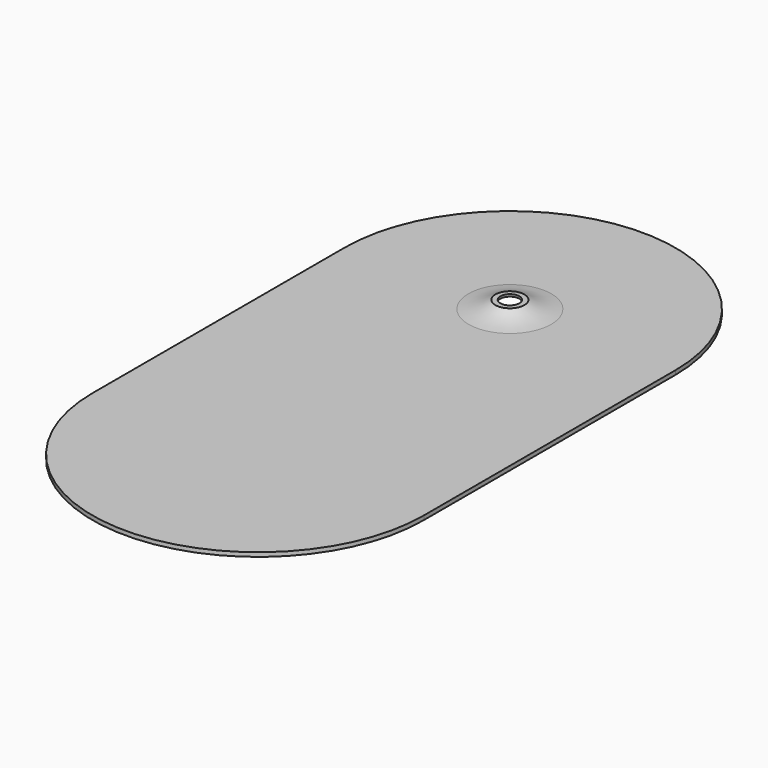
from build123d import *

# Parameters (mm, degrees)
F1_R     = 31.75
F3_DEPTH = 3.175


with BuildPart() as f3:
    # F1 (on Top) → F3 (new body)
    with BuildSketch(Plane.XY):
        with BuildLine():
            Line((127, -120.65), (127, 120.65))
            ThreePointArc((127, 120.65), (0, 247.65), (-127, 120.65))
            Line((-127, 120.65), (-127, -120.65))
            ThreePointArc((-127, -120.65), (0, -247.65), (127, -120.65))
        make_face()
        with Locations((0, -120.65)):
            Circle(F1_R, mode=Mode.SUBTRACT)
        with Locations((0, 120.65)):
            Circle(F1_R, mode=Mode.SUBTRACT)
        with Locations((0, -120.65)):
            Circle(F1_R)
    extrude(amount=-F3_DEPTH)

    # F2 (on Right) → F4 (revolve)
    with BuildSketch(Plane.YZ):
        with BuildLine():
            ThreePointArc((152.4, 0), (141.747384, 2.004291), (131.7625, 6.223))
            Line((131.7625, 6.223), (127.9525, 6.223))
            Line((127.9525, 6.223), (127.9525, 4.5212))
            Line((127.9525, 4.5212), (131.437622, 4.5212))
            Line((131.437622, 4.5212), (131.437622, 4.9276))
            ThreePointArc((131.437622, 4.9276), (141.588603, 0.703783), (152.4, -1.2954))
            Line((152.4, -1.2954), (152.4, 0))
        make_face()
    revolve(axis=Axis((0, 120.65, -1.512157), (0, 0, -1)))


solid = f3.part
